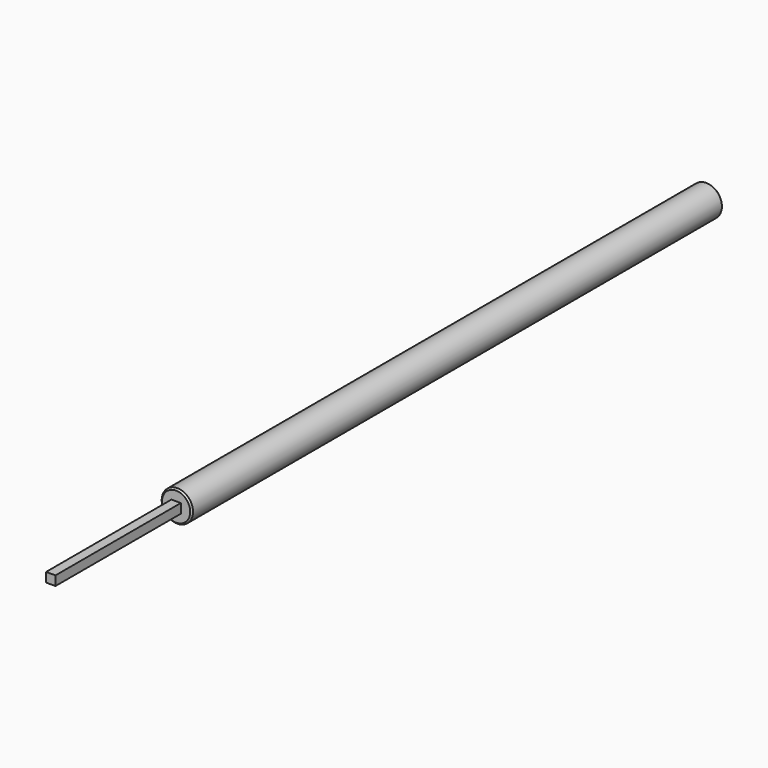
from build123d import *

# Parameters (mm, degrees)
F0_R     = 10
F1_DEPTH = 424
F2_SIZE  = 1
F3_W     = 6
F3_H     = 6
F4_DEPTH = 100


with BuildPart() as f1:
    # F0 (on Front) → F1 (new body)
    with BuildSketch(Plane.XZ):
        Circle(F0_R)
    extrude(amount=F1_DEPTH)

    # F2
    f2_edges = [f1.edges().sort_by_distance(p)[0] for p in [
        (-10, 0, 0),
        (-10, -424, 0),
    ]]
    chamfer(f2_edges, length=F2_SIZE)

    # F3 (on face) → F4 (join)
    with BuildSketch(Plane.XZ.offset(424)):
        Rectangle(F3_W, F3_H)
    extrude(amount=F4_DEPTH)


solid = f1.part
